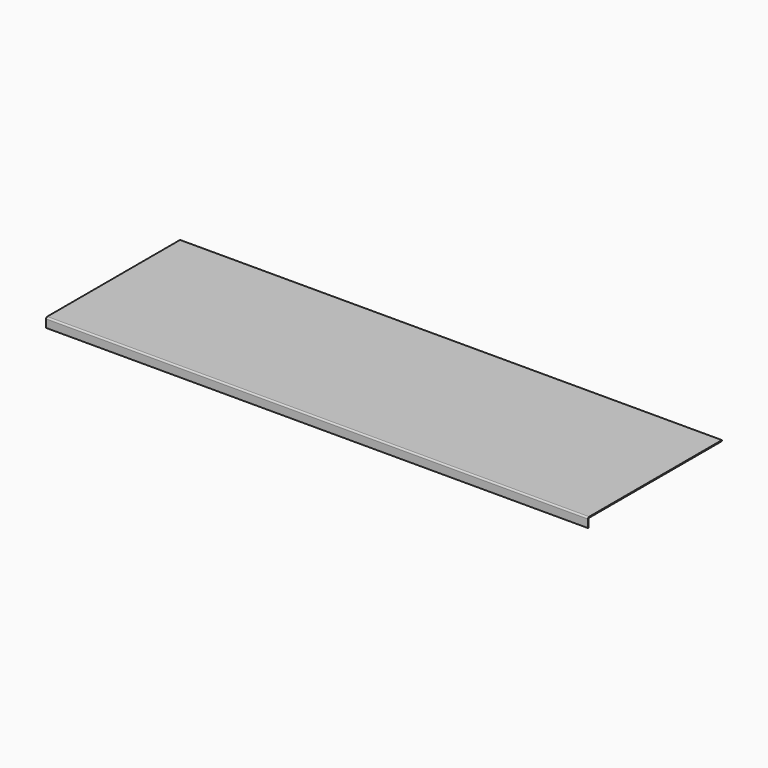
from build123d import *

# Parameters (mm, degrees)
F0_W     = 561.975
F0_H     = 3.175
F1_DEPTH = 914.4
F2_R     = 5.08


with BuildPart() as f1:
    # F0 (on Right) → F1 (new body, symmetric)
    with BuildSketch(Plane.YZ):
        with Locations((-25.322074132, -168.2381033317)):
            Rectangle(F0_W, F0_H)
        Polygon((-306.309574132, -169.8256033317), (-306.309574132, -166.6506033317), (-309.484574132, -166.6506033317), (-309.484574132, -198.4006033317), (-306.309574132, -198.4006033317), align=None)
    extrude(amount=F1_DEPTH, both=True)

    # F2
    f2_edges = [f1.edges().sort_by_distance(p)[0] for p in [
        (0, -309.484574, -166.650603),
    ]]
    fillet(f2_edges, radius=F2_R)


solid = f1.part
